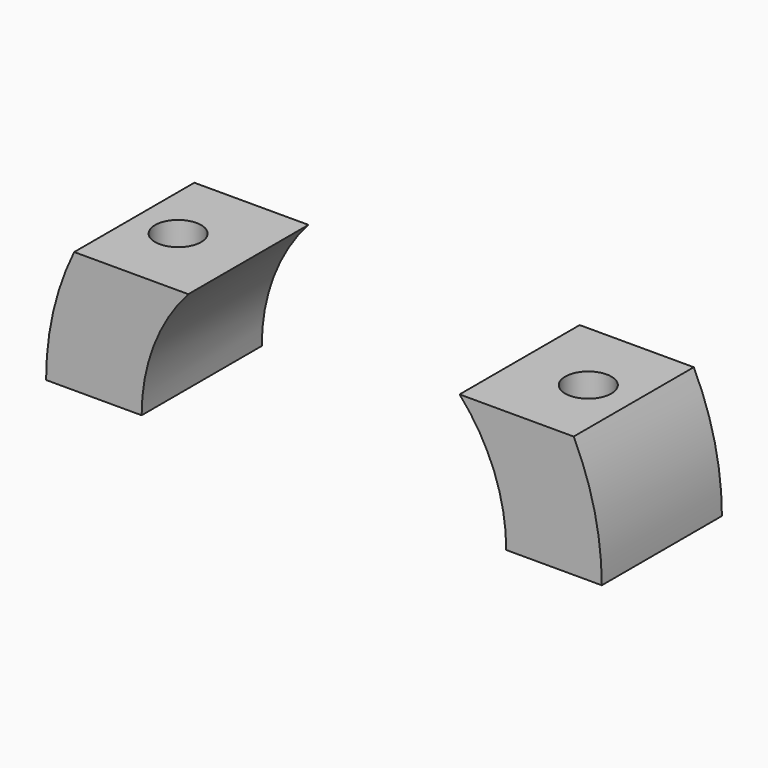
from build123d import *

# Parameters (mm, degrees)
F0_R          = 25.91
F1_DEPTH      = 7
F1_DEPTH_BACK = 7
F2_R          = 17
F3_DEPTH      = 7
F3_DEPTH_BACK = 7
F5_W          = 10
F5_H          = 14
F6_DEPTH      = 20
F7_R          = 2.15
F8_DEPTH      = 30
F8_DEPTH_BACK = 30
F9_W          = 14
F9_H          = 14
F10_DEPTH     = 3
F14_W         = 122.705668211
F14_H         = 84.9680826068
F15_DEPTH     = 18
F16_W         = 70.5849379301
F16_H         = 46.2428703904
F17_DEPTH     = 30


with BuildPart() as f1:
    # F0 (on Front) → F1 (new body, two sides)
    with BuildSketch(Plane.XZ) as f1_sk:
        Circle(F0_R)
    extrude(amount=F1_DEPTH)
    extrude(f1_sk.sketch, amount=-F1_DEPTH_BACK)

    # F2 (on Front) → F3 (cut, two sides)
    with BuildSketch(Plane.XZ) as f3_sk:
        Circle(F2_R)
    extrude(amount=-F3_DEPTH, mode=Mode.SUBTRACT)
    extrude(f3_sk.sketch, amount=F3_DEPTH_BACK, mode=Mode.SUBTRACT)

    # F5 (on face) → F6 (join)
    with BuildSketch(Plane.XY):
        with Locations((-20.91, 0)):
            Rectangle(F5_W, F5_H)
        with Locations((20.91, 0)):
            Rectangle(F5_W, F5_H)
    extrude(amount=-F6_DEPTH)

    # F7 (on face) → F8 (cut, two sides)
    with BuildSketch(Plane.XY) as f8_sk:
        with Locations((-19.1982129737, 0)):
            Circle(F7_R)
        with Locations((19.0490627756, 0)):
            Circle(F7_R)
    extrude(amount=F8_DEPTH, mode=Mode.SUBTRACT)
    extrude(f8_sk.sketch, amount=-F8_DEPTH_BACK, mode=Mode.SUBTRACT)

    # F9 (on face) → F10 (cut)
    with BuildSketch(Plane(origin=(0, 0, -20), x_dir=(1, 0, 0), z_dir=(0, 0, -1))):
        with Locations((-18.91, 0)):
            Rectangle(F9_W, F9_H)
        with Locations((18.91, 0)):
            Rectangle(F9_W, F9_H)
    extrude(amount=F10_DEPTH, mode=Mode.SUBTRACT)

    # F14 (on 3pt) → F15 (cut)
    with BuildSketch(Plane(origin=(0, 0, 11.36), x_dir=(1, 0, 0), z_dir=(0, 0, -1))):
        with Locations((8.9623853564, -3.6773085594)):
            Rectangle(F14_W, F14_H)
    extrude(amount=-F15_DEPTH, mode=Mode.SUBTRACT)

    # F16 (on face) → F17 (cut)
    with BuildSketch(Plane.XY):
        with Locations((0.332955271, 0.6083846092)):
            Rectangle(F16_W, F16_H)
    extrude(amount=-F17_DEPTH, mode=Mode.SUBTRACT)


solid = f1.part
